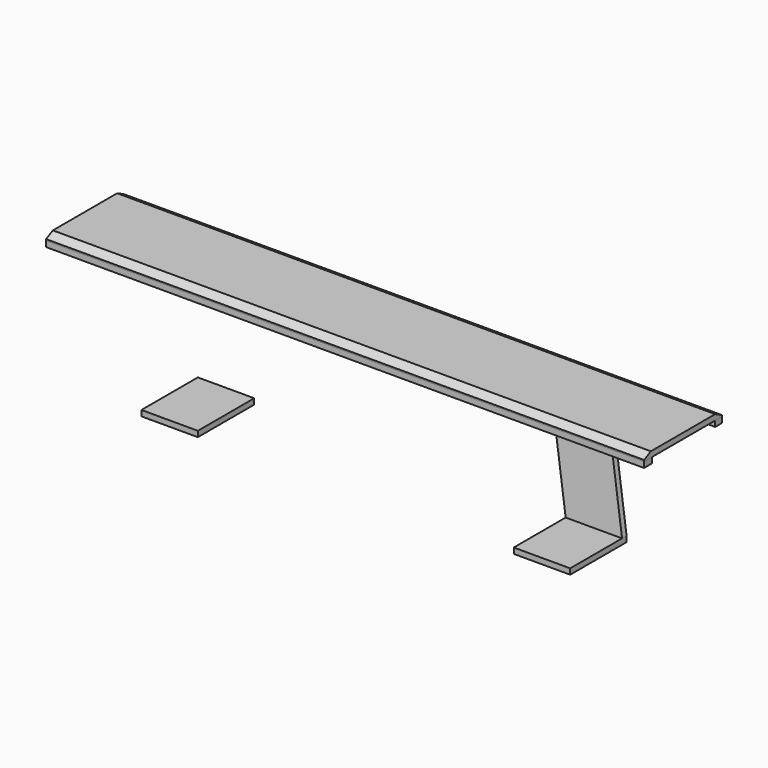
from build123d import *

# Parameters (mm, degrees)
F0_W      = 2120
F0_H      = 345
F1_DEPTH  = 20
F2_SIZE2  = 15
F2_SIZE   = 30
F3_W      = 2120
F3_H      = 35
F4_DEPTH  = 20
F3_H_2    = 30
F9_W      = 200
F9_H      = 250
F10_DEPTH = 20
F8_W      = 200
F8_H      = 20
F12_W     = 200
F12_H     = 20


with BuildPart() as f1:
    # F0 (on Top) → F1 (new body)
    with BuildSketch(Plane.XY):
        Rectangle(F0_W, F0_H)
    extrude(amount=F1_DEPTH)

    # F2
    f2_edges = [f1.edges().sort_by_distance(p)[0] for p in [
        (0, -172.5, 20),
        (0, 172.5, 20),
    ]]
    f2_side = f1.faces().sort_by_distance((0, 0, 20))[0]
    chamfer(f2_edges, length=F2_SIZE, length2=F2_SIZE2, reference=f2_side)


with BuildPart() as f4:
    # F3 (on face) → F4 (new body)
    with BuildSketch(Plane(origin=(0, 0, 0), x_dir=(1, 0, 0), z_dir=(0, 0, -1))):
        with Locations((0, 155)):
            Rectangle(F3_W, F3_H)
    extrude(amount=F4_DEPTH)


with BuildPart() as f4b:
    # F3 (on face) → F4, piece 2 (new body)
    with BuildSketch(Plane(origin=(0, 0, 0), x_dir=(1, 0, 0), z_dir=(0, 0, -1))):
        with Locations((0, -157.5)):
            Rectangle(F3_W, F3_H_2)
    extrude(amount=F4_DEPTH)


with BuildPart() as f10:
    # F9 (on offset) → F10 (new body)
    with BuildSketch(Plane(origin=(0, 0, -470), x_dir=(1, 0, 0), z_dir=(0, 0, -1))):
        with Locations((660, 0)):
            Rectangle(F9_W, F9_H)
    extrude(amount=-F10_DEPTH)


with BuildPart() as f10b:
    # F9 (on offset) → F10, piece 2 (new body)
    with BuildSketch(Plane(origin=(0, 0, -470), x_dir=(1, 0, 0), z_dir=(0, 0, -1))):
        with Locations((-660, 0)):
            Rectangle(F9_W, F9_H)
    extrude(amount=-F10_DEPTH)


with BuildPart() as f13:
    # F8 (on face) → F13 section 0
    with BuildSketch(Plane(origin=(0, 0, -20), x_dir=(1, 0, 0), z_dir=(0, 0, -1))):
        with Locations((560, -162.5)):
            Rectangle(F8_W, F8_H)
    # F12 (on face) → F13 section 1
    with BuildSketch(Plane.XY.offset(-450)):
        with Locations((660, 115)):
            Rectangle(F12_W, F12_H)
    loft()


solid = Compound([f1.part, f4.part, f4b.part, f10.part, f10b.part, f13.part])
